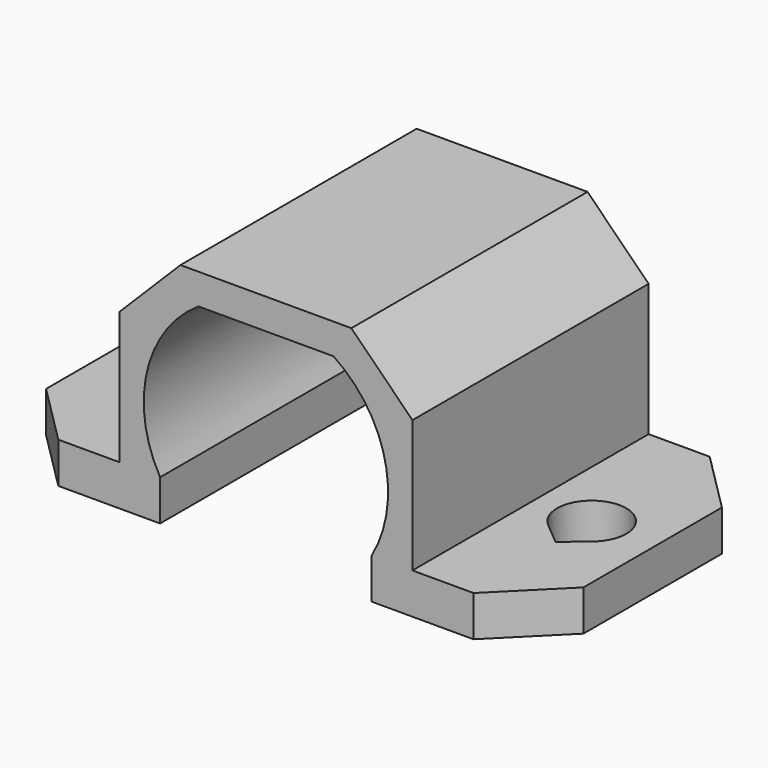
from build123d import *

# Parameters (mm, degrees)
PAD_DEPTH       = 14.5
POCKET_DEPTH    = 5
CHAMFER_SIZE    = 3
CHAMFER001_SIZE = 3


with BuildPart() as part:
    # Sketch → Pad (new body)
    with BuildSketch(Plane.XZ):
        with BuildLine():
            ThreePointArc((-3.316625, 10), (-5.840963, 6.372281), (-5.196152, 2))
            Line((-5.196152, 2), (-5.196152, 0))
            Line((-13.196152, 0), (-5.196152, 0))
            Line((-13.196152, 2), (-13.196152, 0))
            Line((-7.196152, 2), (-13.196152, 2))
            Line((-7.196152, 11.5), (-7.196152, 2))
            Line((7.196152, 11.5), (-7.196152, 11.5))
            Line((7.196152, 2), (7.196152, 11.5))
            Line((13.196152, 2), (7.196152, 2))
            Line((13.196152, 0), (13.196152, 2))
            Line((5.196152, 0), (13.196152, 0))
            Line((5.196152, 2), (5.196152, 0))
            ThreePointArc((5.196152, 2), (5.840963, 6.372281), (3.316625, 10))
            Line((-3.316625, 10), (3.316625, 10))
        make_face()
    extrude(amount=PAD_DEPTH)

    # Sketch001 (on Face7 of Pad) → Pocket (cut)
    with BuildSketch(Plane(origin=(0, 0, 2), x_dir=(-1, 0, 0), z_dir=(0, 0, 1))):
        with BuildLine():
            ThreePointArc((-11.095237, 8.300175), (-10, 5.3), (-8.904763, 8.300175))
            Line((-10, 9.222777), (-8.904763, 8.300175))
            Line((-11.095237, 8.300175), (-10, 9.222777))
        make_face()
    pocket = extrude(amount=-POCKET_DEPTH, mode=Mode.SUBTRACT)

    # Mirrored: Pocket across YZ
    add(pocket.mirror(Plane.YZ), mode=Mode.SUBTRACT)

    # Chamfer
    chamfer_edges = [part.edges().sort_by_distance(p)[0] for p in [
        (-7.196152, -7.25, 11.5),
        (7.196152, -7.25, 11.5),
    ]]
    chamfer(chamfer_edges, length=CHAMFER_SIZE)

    # Chamfer001
    chamfer001_edges = [part.edges().sort_by_distance(p)[0] for p in [
        (-13.196152, -14.5, 1),
        (13.196152, -14.5, 1),
        (13.196152, 0, 1),
        (-13.196152, 0, 1),
    ]]
    chamfer(chamfer001_edges, length=CHAMFER001_SIZE)


solid = part.part
